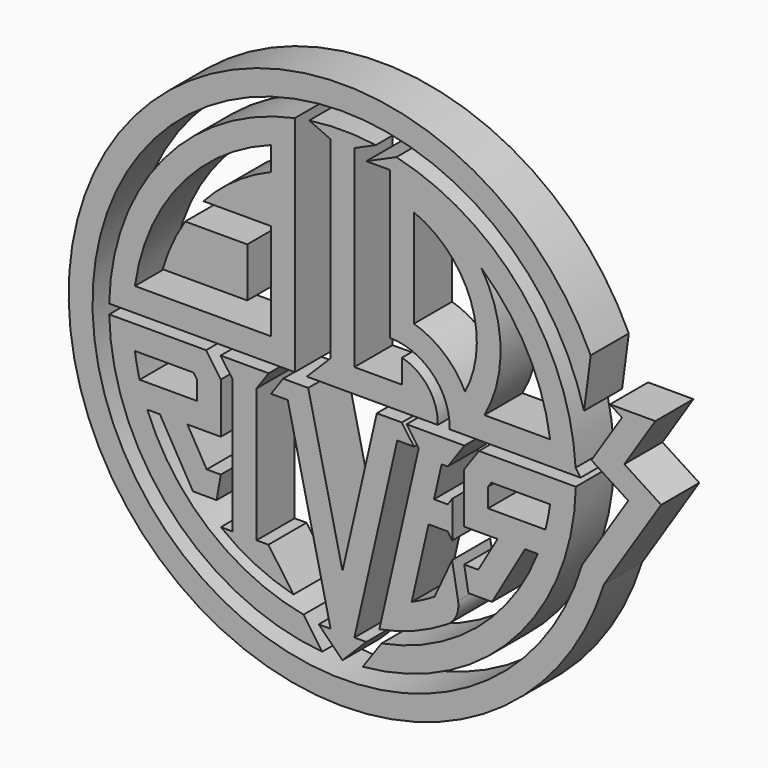
from build123d import *

# Parameters (mm, degrees)
F3_DEPTH  = 25.4
F5_DEPTH  = 25.4
F6_DEPTH  = 25.4
F8_DEPTH  = 25.4
F10_DEPTH = 25.4
F12_DEPTH = 25.401
F14_DEPTH = 25.4
F16_DEPTH = 25.4
F18_DEPTH = 25.4
F20_R     = 84.4927612286
F21_DEPTH = 25.4


with BuildPart() as f3:
    # F1 (on Front) → F3 (new body)
    with BuildSketch(Plane.XZ):
        with BuildLine():
            ThreePointArc((-25.4, 121.8405991449), (-95.7638817172, 79.4957266679), (-124.4340789334, 2.54))
            Line((-124.4340789334, 2.54), (-25.4, 2.54))
            Line((-25.4, 2.54), (-25.4, 121.8405991449))
        make_face()
        with BuildLine():
            ThreePointArc((-110.7160331659, 15.24), (-86.9119826119, 70.2609769251), (-38.1, 105.0651588301))
            Line((-38.1, 105.0651588301), (-38.1, 92.3651588301))
            ThreePointArc((-38.1, 92.3651588301), (-57.5451867422, 81.679153084), (-74.1525459345, 66.9651588301))
            Line((-74.1525459345, 66.9651588301), (-38.1, 66.9651588301))
            Line((-38.1, 66.9651588301), (-38.1, 15.24))
            Line((-38.1, 15.24), (-110.7160331659, 15.24))
        make_face(mode=Mode.SUBTRACT)
    extrude(amount=F3_DEPTH)


with BuildPart() as f3b:
    # F1 (on Front) → F3, piece 2 (new body)
    with BuildSketch(Plane.XZ):
        with BuildLine():
            Line((6.35, 118.11), (17.78, 123.1834534343))
            ThreePointArc((17.78, 123.1834534343), (0, 124.46), (-17.78, 123.1834534343))
            Line((-17.78, 123.1834534343), (-6.35, 118.11))
            Line((-6.35, 118.11), (-6.35, 15.24))
            Line((-6.35, 15.24), (-19.05, 2.54))
            Line((-19.05, 2.54), (50.8, 2.54))
            ThreePointArc((50.8, 2.54), (45.7327050841, 18.5832788131), (31.75, 27.94))
            Line((31.75, 27.94), (31.75, 15.24))
            Line((31.75, 15.24), (6.35, 15.24))
            Line((6.35, 15.24), (6.35, 118.11))
        make_face()
    extrude(amount=F3_DEPTH)


with BuildPart() as f5:
    # F4 (on Front) → F5 (new body)
    with BuildSketch(Plane.XZ):
        with BuildLine():
            Line((-50.8, 27.94), (-50.8, 54.2651588301))
            Line((-50.8, 54.2651588301), (-83.8941303242, 54.2651588301))
            ThreePointArc((-83.8941303242, 54.2651588301), (-90.8697069766, 41.5406899281), (-95.9285617828, 27.94))
            Line((-95.9285617828, 27.94), (-50.8, 27.94))
        make_face()
    extrude(amount=F5_DEPTH)


with BuildPart() as f6:
    # F2 (on Front) → F6 (new body)
    with BuildSketch(Plane.XZ):
        with BuildLine():
            ThreePointArc((25.4, 35.093276271), (48.1411381908, 25.5126457077), (57.1525419322, 2.54))
            Line((57.1525419322, 2.54), (126.965695369, 2.54))
            Line((126.965695369, 2.54), (124.2979046485, 6.35))
            ThreePointArc((124.2979046485, 6.35), (95.636825538, 79.6485354606), (28.7332646793, 121.0978575404))
            Line((28.7332646793, 121.0978575404), (12.7, 113.9811452263))
            Line((12.7, 113.9811452263), (25.4, 113.9811452263))
            Line((25.4, 113.9811452263), (25.4, 35.093276271))
        make_face()
        with BuildLine():
            Line((38.1, 98.2576242415), (38.1, 105.0651588301))
            ThreePointArc((38.1, 105.0651588301), (57.1644375837, 96.0339766735), (74.1921715749, 83.5812136607))
            ThreePointArc((74.1921715749, 83.5812136607), (98.5666851237, 52.677378292), (110.7160331659, 15.24))
            Line((110.7160331659, 15.24), (75.6643674018, 15.24))
            Line((75.6643674018, 15.24), (68.2410896555, 15.24))
            ThreePointArc((68.2410896555, 15.24), (66.9718438263, 19.1116169311), (65.3534242126, 22.8507505995))
            ThreePointArc((65.3534242126, 22.8507505995), (54.1486294803, 37.2556533847), (38.1, 45.9441596457))
            Line((38.1, 45.9441596457), (38.1, 98.2576242415))
        make_face(mode=Mode.SUBTRACT)
    extrude(amount=F6_DEPTH)

    # F7 (on Front) → F8 (join)
    with BuildSketch(Plane.XZ):
        with BuildLine():
            ThreePointArc((38.1, 98.2576242415), (68.4115211867, 66.5843827835), (65.3534242126, 22.8507505995))
            ThreePointArc((65.3534242126, 22.8507505995), (66.9718438263, 19.1116169311), (68.2410896555, 15.24))
            Line((68.2410896555, 15.24), (75.6643674018, 15.24))
            ThreePointArc((75.6643674018, 15.24), (84.3210627234, 49.6129449257), (74.1921715749, 83.5812136607))
            ThreePointArc((74.1921715749, 83.5812136607), (57.1644375837, 96.0339766735), (38.1, 105.0651588301))
            Line((38.1, 105.0651588301), (38.1, 98.2576242415))
        make_face()
    extrude(amount=F8_DEPTH)


with BuildPart() as f10:
    # F9 (on Front) → F10 (new body)
    with BuildSketch(Plane.XZ):
        Polygon((-18.2909121905, -2.54), (-31.6416893331, -2.54), (-38.1, -11.7634235059), (-29.21, -11.7634235059), (-6.35, -111.76), (-12.7, -111.76), (0, -124.46), (12.7, -111.76), (6.35, -111.76), (29.21, -11.7634235059), (38.1, -11.7634235059), (31.6416893331, -2.54), (18.2909121905, -2.54), (0, -82.55), align=None)
    extrude(amount=F10_DEPTH)


with BuildPart() as f10b:
    # F9 (on Front) → F10, piece 2 (new body)
    with BuildSketch(Plane.XZ):
        with BuildLine():
            Line((-39.3936079717, -2.54), (-65.0102293056, -2.54))
            Line((-65.0102293056, -2.54), (-58.5519186386, -11.7634235059))
            Line((-58.5519186386, -11.7634235059), (-58.5519186386, -83.0602736392))
            Line((-58.5519186386, -83.0602736392), (-64.9019186386, -83.0602736392))
            ThreePointArc((-64.9019186386, -83.0602736392), (-46.5176770944, -94.5905588193), (-26.1618812897, -102.111821389))
            Line((-26.1618812897, -102.111821389), (-39.5019186386, -83.0602736392))
            Line((-39.5019186386, -83.0602736392), (-45.8519186386, -83.0602736392))
            Line((-45.8519186386, -83.0602736392), (-45.8519186386, -11.7634235059))
            Line((-45.8519186386, -11.7634235059), (-39.3936079717, -2.54))
        make_face()
    extrude(amount=F10_DEPTH)


with BuildPart() as f10c:
    # F9 (on Front) → F10, piece 3 (new body)
    with BuildSketch(Plane.XZ):
        with BuildLine():
            Line((-72.7621479442, -2.54), (-124.4340789334, -2.54))
            ThreePointArc((-124.4340789334, -2.54), (-90.8978891831, -85.0168532825), (-10.8449943843, -123.9866028924))
            Line((-10.8449943843, -123.9866028924), (-20.7693394721, -109.8131692371))
            ThreePointArc((-20.7693394721, -109.8131692371), (-71.3784490451, -85.9965965136), (-104.1090197821, -40.64))
            Line((-104.1090197821, -40.64), (-97.3466154761, -40.64))
            Line((-97.3466154761, -40.64), (-79.7489792712, -71.12))
            Line((-79.7489792712, -71.12), (-67.1412712936, -71.12))
            Line((-67.1412712936, -71.12), (-64.9019186386, -58.42))
            Line((-64.9019186386, -58.42), (-72.4166308524, -58.42))
            Line((-72.4166308524, -58.42), (-82.6819186386, -40.64))
            Line((-82.6819186386, -40.64), (-64.9019186386, -40.64))
            Line((-64.9019186386, -40.64), (-64.9019186386, -13.7655708153))
            Line((-64.9019186386, -13.7655708153), (-72.7621479442, -2.54))
        make_face()
    extrude(amount=F10_DEPTH)


with BuildPart() as f10d:
    # F9 (on Front) → F10, piece 4 (new body)
    with BuildSketch(Plane.XZ):
        with BuildLine():
            ThreePointArc((10.8449943843, -123.9866028924), (90.8978891831, -85.0168532825), (124.4340789334, -2.54))
            Line((124.4340789334, -2.54), (72.7621479442, -2.54))
            Line((72.7621479442, -2.54), (64.9019186386, -13.7655708153))
            Line((64.9019186386, -13.7655708153), (64.9019186386, -40.64))
            Line((64.9019186386, -40.64), (82.6819186386, -40.64))
            Line((82.6819186386, -40.64), (72.4166308524, -58.42))
            Line((72.4166308524, -58.42), (64.9019186386, -58.42))
            Line((64.9019186386, -58.42), (67.1412712936, -71.12))
            Line((67.1412712936, -71.12), (79.7489792712, -71.12))
            Line((79.7489792712, -71.12), (97.3466154761, -40.64))
            Line((97.3466154761, -40.64), (104.1090197821, -40.64))
            ThreePointArc((104.1090197821, -40.64), (71.3784490451, -85.9965965136), (20.7693394721, -109.8131692371))
            Line((20.7693394721, -109.8131692371), (10.8449943843, -123.9866028924))
        make_face()
    extrude(amount=F10_DEPTH)


with BuildPart() as f12_tool:
    # F11 (on Front) → F12 (new body, through all)
    with BuildSketch(Plane.XZ):
        with BuildLine():
            Line((-108.211154693, -27.94), (-77.6019186386, -27.94))
            Line((-77.6019186386, -27.94), (-77.6019186386, -17.769865434))
            Line((-77.6019186386, -17.769865434), (-79.3733494862, -15.24))
            Line((-79.3733494862, -15.24), (-110.7160331659, -15.24))
            ThreePointArc((-110.7160331659, -15.24), (-109.6476214788, -21.6262965864), (-108.211154693, -27.94))
        make_face()
        with BuildLine():
            Line((77.6019186386, -17.769865434), (77.6019186386, -27.94))
            Line((77.6019186386, -27.94), (108.211154693, -27.94))
            ThreePointArc((108.211154693, -27.94), (109.6476214788, -21.6262965864), (110.7160331659, -15.24))
            Line((110.7160331659, -15.24), (79.3733494862, -15.24))
            Line((79.3733494862, -15.24), (77.6019186386, -17.769865434))
        make_face()
    extrude(amount=F12_DEPTH)


with BuildPart() as f10c_1:
    add(f10c.part)

    # F12: cut by f12_tool
    add(f12_tool.part, mode=Mode.SUBTRACT)


with BuildPart() as f10d_1:
    add(f10d.part)

    # F12: cut by f12_tool
    add(f12_tool.part, mode=Mode.SUBTRACT)


with BuildPart() as f14:
    # F13 (on Front) → F14 (new body)
    with BuildSketch(Plane.XZ):
        with BuildLine():
            Line((34.1816893331, -2.54), (40.64, -11.7634235059))
            Line((40.64, -11.7634235059), (19.6542474744, -103.5614728372))
            ThreePointArc((19.6542474744, -103.5614728372), (38.4106078171, -98.1625860861), (55.8500632203, -89.3982020976))
            ThreePointArc((55.8500632203, -89.3982020976), (60.7229151187, -83.7934560073), (61.628198404, -76.4220025187))
            Line((61.628198404, -76.4220025187), (58.4539596532, -58.42))
            Line((58.4539596532, -58.42), (49.1211399407, -78.627334375))
            ThreePointArc((49.1211399407, -78.627334375), (43.1376370481, -82.0627099839), (36.9152168202, -85.043582163))
            Line((36.9152168202, -85.043582163), (45.9048954648, -45.72))
            Line((45.9048954648, -45.72), (56.1175935703, -45.72))
            Line((56.1175935703, -45.72), (58.5519186386, -49.1965764941))
            Line((58.5519186386, -49.1965764941), (58.5519186386, -29.5434235059))
            Line((58.5519186386, -29.5434235059), (56.1175935703, -33.02))
            Line((56.1175935703, -33.02), (48.8082148601, -33.02))
            Line((48.8082148601, -33.02), (52.8728620136, -15.24))
            Line((52.8728620136, -15.24), (56.1175935703, -15.24))
            Line((56.1175935703, -15.24), (65.0102293056, -2.54))
            Line((65.0102293056, -2.54), (34.1816893331, -2.54))
        make_face()
    extrude(amount=F14_DEPTH)


with BuildPart() as f16:
    # F15 (on Front) → F16 (new body)
    with BuildSketch(Plane.XZ):
        with BuildLine():
            Line((142.6519315761, 42.0762091864), (149.0522291178, 37.9409230564))
            Line((149.0522291178, 37.9409230564), (132.7438562111, 12.7))
            Line((132.7438562111, 12.7), (152.4, 0))
            Line((152.4, 0), (127.798140427, -38.0769834047))
            ThreePointArc((127.798140427, -38.0769834047), (-133.3371393983, 1.851653012), (128.8062048134, 34.5135185599))
            Line((128.8062048134, 34.5135185599), (132.3662484289, 61.7233953236))
            ThreePointArc((132.3662484289, 61.7233953236), (-145.7220677411, -9.7816269946), (139.4279929117, -43.4791449551))
            Line((139.4279929117, -43.4791449551), (169.9593061196, 3.7750190195))
            Line((169.9593061196, 3.7750190195), (150.3031623308, 16.4750190195))
            Line((150.3031623308, 16.4750190195), (166.8443068509, 42.0762091864))
            Line((166.8443068509, 42.0762091864), (142.6519315761, 42.0762091864))
        make_face()
    extrude(amount=F16_DEPTH)


with BuildPart() as f18:
    # F17 (on Front) → F18 (new body)
    with BuildSketch(Plane.XZ):
        with BuildLine():
            ThreePointArc((-132.3377700257, 128.054424183), (-138.9190287599, 120.8831021137), (-145.1121769137, 113.3740580538))
            Line((-145.1121769137, 113.3740580538), (-140.1082996406, 109.4646006635))
            ThreePointArc((-140.1082996406, 109.4646006635), (-134.1287087082, 116.7147116986), (-127.7743903432, 123.6387463501))
            Line((-127.7743903432, 123.6387463501), (-120.4730041622, 116.5736824385))
            ThreePointArc((-120.4730041622, 116.5736824385), (-124.5244024675, 112.2356510171), (-128.4196871752, 107.7569121446))
            Line((-128.4196871752, 107.7569121446), (-113.8265405338, 95.5118081801))
            ThreePointArc((-113.8265405338, 95.5118081801), (-109.5520363301, 100.3859460664), (-105.0689935988, 105.0689935988))
            Line((-105.0689935988, 105.0689935988), (-109.5591195946, 109.5591195946))
            ThreePointArc((-109.5591195946, 109.5591195946), (-112.0642999001, 106.9952992453), (-114.5094992977, 104.3742111025))
            Line((-114.5094992977, 104.3742111025), (-119.3778151515, 108.4592131398))
            ThreePointArc((-119.3778151515, 108.4592131398), (-116.7469957969, 111.2861295834), (-114.0492517846, 114.0492517846))
            Line((-114.0492517846, 114.0492517846), (-136.4998900225, 136.4998900225))
            ThreePointArc((-136.4998900225, 136.4998900225), (-137.6178439353, 135.3727039803), (-138.726490106, 134.2363620455))
            Line((-138.726490106, 134.2363620455), (-132.3377700257, 128.054424183))
        make_face()
    extrude(amount=F18_DEPTH)

    # F19: F18 across face


with BuildPart() as f18_1:
    add(f18.part)
    add(f18.part.mirror(Plane(origin=(-125.2745709036, -12.7, 125.2745709036), x_dir=(0, 1, 0), z_dir=(0.7071067812, 0, 0.7071067812))))

    # F20 (on Front) → F21 (cut)
    with BuildSketch(Plane.XZ):
        with Locations((-157.50195086, 149.4678705931)):
            Circle(F20_R)
    extrude(amount=F21_DEPTH, mode=Mode.SUBTRACT)


solid = Compound([f3.part, f3b.part, f5.part, f6.part, f10.part, f10b.part, f10c_1.part, f10d_1.part, f14.part, f16.part])
